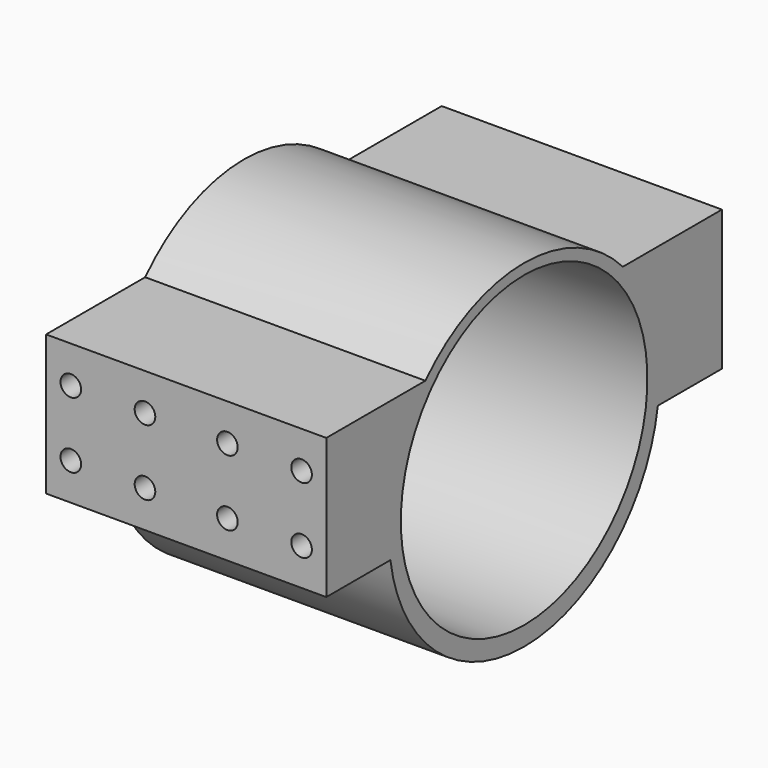
from build123d import *

# Parameters (mm, degrees)
CYLINDER065_R             = 1.25
CYLINDER065_DEPTH         = 10
CYLINDER066_R             = 1.25
CYLINDER066_DEPTH         = 10
CYLINDER067_R             = 1.25
CYLINDER067_DEPTH         = 10
CYLINDER068_R             = 1.25
CYLINDER068_DEPTH         = 10
CYLINDER070_R             = 1.25
CYLINDER070_DEPTH         = 10
CYLINDER069_R             = 1.25
CYLINDER069_DEPTH         = 10
CYLINDER063_R             = 1.25
CYLINDER063_DEPTH         = 10
CYLINDER064_R             = 1.25
CYLINDER064_DEPTH         = 10
BOX023_W                  = 10
BOX023_H                  = 10
BOX023_DEPTH              = 10
CYLINDER055_R             = 1.6
CYLINDER055_DEPTH         = 10
CYLINDER056_R             = 1.6
CYLINDER056_DEPTH         = 10
FUSION042_PLACEMENT_ANGLE = 120
CYLINDER058_R             = 1.6
CYLINDER058_DEPTH         = 10
CYLINDER057_R             = 1.6
CYLINDER057_DEPTH         = 10
CYLINDER053_R             = 1.6
CYLINDER053_DEPTH         = 10
CYLINDER054_R             = 1.6
CYLINDER054_DEPTH         = 10
FUSION041_PLACEMENT_ANGLE = 60
FUSION044_PLACEMENT_ANGLE = 30
CUT026_PLACEMENT_ANGLE    = 90
CYLINDER052_R             = 18.7
CYLINDER052_DEPTH         = 75
CYLINDER051_R             = 7
CYLINDER051_DEPTH         = 10
CYLINDER050_R             = 20.5
CYLINDER050_DEPTH         = 34
BOX022_W                  = 34
BOX022_H                  = 60
BOX022_DEPTH              = 17


with BuildPart() as cylinder065:
    # Cylinder065 → Cylinder065 (new body)
    with BuildSketch(Plane(origin=(87.5, 61, 14), x_dir=(1, 0, 0), z_dir=(0, -1, 0))):
        Circle(CYLINDER065_R)
    extrude(amount=CYLINDER065_DEPTH)


with BuildPart() as cylinder066:
    # Cylinder066 → Cylinder066 (new body)
    with BuildSketch(Plane(origin=(87.5, 11, 14), x_dir=(1, 0, 0), z_dir=(0, -1, 0))):
        Circle(CYLINDER066_R)
    extrude(amount=CYLINDER066_DEPTH)


with BuildPart() as fusion056:
    # Fusion056 base: copy of Cylinder066
    add(cylinder066.part)

    # Fusion056: union Cylinder065
    add(cylinder065.part)


with BuildPart() as fusion056_1:
    # Fusion056 placement: moved
    add(fusion056.part.moved(Location((251.5, 0, 0))))


with BuildPart() as cylinder067:
    # Cylinder067 → Cylinder067 (new body)
    with BuildSketch(Plane(origin=(87.5, 61, 14), x_dir=(1, 0, 0), z_dir=(0, -1, 0))):
        Circle(CYLINDER067_R)
    extrude(amount=CYLINDER067_DEPTH)


with BuildPart() as cylinder068:
    # Cylinder068 → Cylinder068 (new body)
    with BuildSketch(Plane(origin=(87.5, 11, 14), x_dir=(1, 0, 0), z_dir=(0, -1, 0))):
        Circle(CYLINDER068_R)
    extrude(amount=CYLINDER068_DEPTH)


with BuildPart() as fusion057:
    # Fusion057 base: copy of Cylinder068
    add(cylinder068.part)

    # Fusion057: union Cylinder067
    add(cylinder067.part)


with BuildPart() as fusion057_1:
    # Fusion057 placement: moved
    add(fusion057.part.moved(Location((261.5, 0, 0))))


with BuildPart() as cylinder070:
    # Cylinder070 → Cylinder070 (new body)
    with BuildSketch(Plane(origin=(87.5, 61, 14), x_dir=(1, 0, 0), z_dir=(0, -1, 0))):
        Circle(CYLINDER070_R)
    extrude(amount=CYLINDER070_DEPTH)


with BuildPart() as cylinder069:
    # Cylinder069 → Cylinder069 (new body)
    with BuildSketch(Plane(origin=(87.5, 11, 14), x_dir=(1, 0, 0), z_dir=(0, -1, 0))):
        Circle(CYLINDER069_R)
    extrude(amount=CYLINDER069_DEPTH)


with BuildPart() as fusion055:
    # Fusion055 base: copy of Cylinder069
    add(cylinder069.part)

    # Fusion055: union Cylinder070
    add(cylinder070.part)


with BuildPart() as fusion055_1:
    # Fusion055 placement: moved
    add(fusion055.part.moved(Location((270.5, 0, 0))))


with BuildPart() as cylinder063:
    # Cylinder063 → Cylinder063 (new body)
    with BuildSketch(Plane(origin=(87.5, 61, 14), x_dir=(1, 0, 0), z_dir=(0, -1, 0))):
        Circle(CYLINDER063_R)
    extrude(amount=CYLINDER063_DEPTH)


with BuildPart() as cylinder064:
    # Cylinder064 → Cylinder064 (new body)
    with BuildSketch(Plane(origin=(87.5, 11, 14), x_dir=(1, 0, 0), z_dir=(0, -1, 0))):
        Circle(CYLINDER064_R)
    extrude(amount=CYLINDER064_DEPTH)


with BuildPart() as fusion054:
    # Fusion058 base: copy of Cylinder064
    add(cylinder064.part)

    # Fusion058: union Cylinder063
    add(cylinder063.part)


with BuildPart() as fusion054_1:
    # Fusion058 placement: moved
    add(fusion054.part.moved(Location((242.5, 0, 0))))

    # Fusion054: union Fusion056, Fusion057, Fusion055
    add(fusion056_1.part)
    add(fusion057_1.part)
    add(fusion055_1.part)


with BuildPart() as fusion054_2:
    # Fusion054 placement: moved
    add(fusion054_1.part.moved(Location((0, 0, -8))))


with BuildPart() as fusion050:
    # Fusion050 base: copy of Cylinder066
    add(cylinder066.part)

    # Fusion050: union Cylinder065
    add(cylinder065.part)


with BuildPart() as fusion050_1:
    # Fusion050 placement: moved
    add(fusion050.part.moved(Location((251.5, 0, 0))))


with BuildPart() as fusion051:
    # Fusion051 base: copy of Cylinder068
    add(cylinder068.part)

    # Fusion051: union Cylinder067
    add(cylinder067.part)


with BuildPart() as fusion051_1:
    # Fusion051 placement: moved
    add(fusion051.part.moved(Location((261.5, 0, 0))))


with BuildPart() as fusion052:
    # Fusion052 base: copy of Cylinder069
    add(cylinder069.part)

    # Fusion052: union Cylinder070
    add(cylinder070.part)


with BuildPart() as fusion052_1:
    # Fusion052 placement: moved
    add(fusion052.part.moved(Location((270.5, 0, 0))))


with BuildPart() as fusion059:
    # Fusion049 base: copy of Cylinder064
    add(cylinder064.part)

    # Fusion049: union Cylinder063
    add(cylinder063.part)


with BuildPart() as fusion059_1:
    # Fusion049 placement: moved
    add(fusion059.part.moved(Location((242.5, 0, 0))))

    # Fusion053: union Fusion050, Fusion051, Fusion052
    add(fusion050_1.part)
    add(fusion051_1.part)
    add(fusion052_1.part)

    # Fusion059: union Fusion054
    add(fusion054_2.part)


with BuildPart() as cube002:
    # Box023 → Box023 (new body)
    with BuildSketch(Plane.XY):
        with Locations((5, 5)):
            Rectangle(BOX023_W, BOX023_H)
    extrude(amount=BOX023_DEPTH)


with BuildPart() as cylinder055:
    # Cylinder055 → Cylinder055 (new body)
    with BuildSketch(Plane(origin=(15.5, 0, 0), x_dir=(1, 0, 0), z_dir=(0, 0, 1))):
        Circle(CYLINDER055_R)
    extrude(amount=CYLINDER055_DEPTH)


with BuildPart() as fusion042:
    # Cylinder056 → Cylinder056 (new body)
    with BuildSketch(Plane(origin=(-15.5, 0, 0), x_dir=(1, 0, 0), z_dir=(0, 0, 1))):
        Circle(CYLINDER056_R)
    extrude(amount=CYLINDER056_DEPTH)

    # Fusion042: union Cylinder055
    add(cylinder055.part)


with BuildPart() as fusion042_1:
    # Fusion042 placement: moved
    add(fusion042.part.rotate(Axis((0, 0, 0), (0, 0, 1)), FUSION042_PLACEMENT_ANGLE))


with BuildPart() as cylinder058:
    # Cylinder058 → Cylinder058 (new body)
    with BuildSketch(Plane(origin=(15.5, 0, 0), x_dir=(1, 0, 0), z_dir=(0, 0, 1))):
        Circle(CYLINDER058_R)
    extrude(amount=CYLINDER058_DEPTH)


with BuildPart() as fusion043:
    # Cylinder057 → Cylinder057 (new body)
    with BuildSketch(Plane(origin=(-15.5, 0, 0), x_dir=(1, 0, 0), z_dir=(0, 0, 1))):
        Circle(CYLINDER057_R)
    extrude(amount=CYLINDER057_DEPTH)

    # Fusion043: union Cylinder058
    add(cylinder058.part)


with BuildPart() as cylinder053:
    # Cylinder053 → Cylinder053 (new body)
    with BuildSketch(Plane(origin=(15.5, 0, 0), x_dir=(1, 0, 0), z_dir=(0, 0, 1))):
        Circle(CYLINDER053_R)
    extrude(amount=CYLINDER053_DEPTH)


with BuildPart() as holes:
    # Cylinder054 → Cylinder054 (new body)
    with BuildSketch(Plane(origin=(-15.5, 0, 0), x_dir=(1, 0, 0), z_dir=(0, 0, 1))):
        Circle(CYLINDER054_R)
    extrude(amount=CYLINDER054_DEPTH)

    # Fusion041: union Cylinder053
    add(cylinder053.part)


with BuildPart() as holes_1:
    # Fusion041 placement: moved
    add(holes.part.rotate(Axis((0, 0, 0), (0, 0, 1)), FUSION041_PLACEMENT_ANGLE))

    # Fusion044: union Fusion042, Fusion043
    add(fusion042_1.part)
    add(fusion043.part)


with BuildPart() as holes_2:
    # Fusion044 placement: moved
    add(holes_1.part.rotate(Axis((0, 0, 0), (0, 0, 1)), FUSION044_PLACEMENT_ANGLE))

    # Cut026: cut Cube002
    add(cube002.part, mode=Mode.SUBTRACT)


with BuildPart() as holes_3:
    # Cut026 placement: moved
    add(holes_2.part.moved(Location((327, 31, 5))).rotate(Axis((327, 31, 5), (0, 1, 0)), CUT026_PLACEMENT_ANGLE))


with BuildPart() as cylinder052:
    # Cylinder052 → Cylinder052 (new body)
    with BuildSketch(Plane(origin=(336, 31, 5), x_dir=(0, 0, -1), z_dir=(1, 0, 0))):
        Circle(CYLINDER052_R)
    extrude(amount=CYLINDER052_DEPTH)


with BuildPart() as cylinder051:
    # Cylinder051 → Cylinder051 (new body)
    with BuildSketch(Plane(origin=(327, 31, 12), x_dir=(0, 0, -1), z_dir=(1, 0, 0))):
        Circle(CYLINDER051_R)
    extrude(amount=CYLINDER051_DEPTH)


with BuildPart() as cylinder050:
    # Cylinder050 → Cylinder050 (new body)
    with BuildSketch(Plane(origin=(326, 31, 4.5), x_dir=(0, 0, -1), z_dir=(1, 0, 0))):
        Circle(CYLINDER050_R)
    extrude(amount=CYLINDER050_DEPTH)


with BuildPart() as motor_support:
    # Box022 → Box022 (new body)
    with BuildSketch(Plane(origin=(326, 1, 1.5), x_dir=(1, 0, 0), z_dir=(0, 0, 1))):
        with Locations((17, 30)):
            Rectangle(BOX022_W, BOX022_H)
    extrude(amount=BOX022_DEPTH)

    # Fusion039: union Cylinder050
    add(cylinder050.part)


with BuildPart() as motor_support_1:
    # Fusion039 placement: moved
    add(motor_support.part.moved(Location((1, 0, 0))))

    # Cut024: cut Cylinder051
    add(cylinder051.part, mode=Mode.SUBTRACT)

    # Cut025: cut Cylinder052
    add(cylinder052.part, mode=Mode.SUBTRACT)

    # Cut027: cut holes
    add(holes_3.part, mode=Mode.SUBTRACT)

    # Cut036: cut Fusion059
    add(fusion059_1.part, mode=Mode.SUBTRACT)


with BuildPart() as motor_support_2:
    # Cut036 placement: moved
    add(motor_support_1.part.moved(Location((86, 0, 0))))


solid = motor_support_2.part
